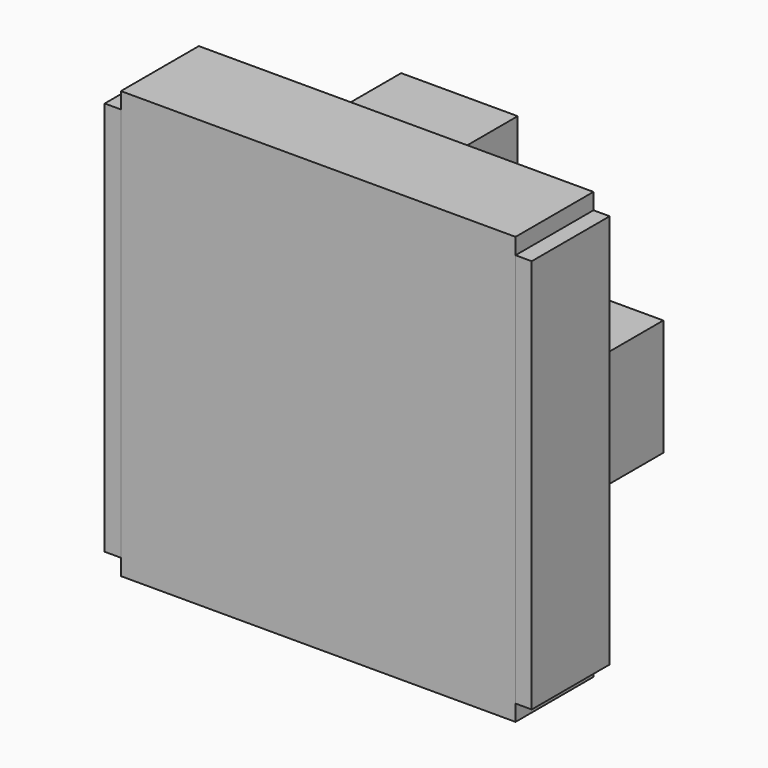
from build123d import *

# Parameters (mm, degrees)
F7_W     = 102.895118
F7_H     = 111.34009
F0_DEPTH = 25.4
F1_W     = 22.761002
F1_H     = 30.382879
F2_DEPTH = 6.317275
F3_W     = 11.380501
F3_H     = 30.382879
F4_DEPTH = 10.554014
F5_COUNT = 3
F5_ANGLE = 180


with BuildPart() as f0:
    # F7 (on Front) → F0 (new body)
    with BuildSketch(Plane.XZ):
        Rectangle(F7_W, F7_H)
    extrude(amount=F0_DEPTH)

    # F1 (on face) → F2 (join)
    with BuildSketch(Plane(origin=(-51.447559, 0, 0), x_dir=(0, -1, 0), z_dir=(-1, 0, 0))):
        with Locations((-11.380501, -1.708765)):
            Rectangle(F1_W, F1_H)
    extrude(amount=-F2_DEPTH)

    # F3 (on face) → F4 (join)
    with BuildSketch(Plane.YZ.offset(-45.130285)):
        with Locations((17.070752, -1.708765)):
            Rectangle(F3_W, F3_H)
    extrude(amount=F4_DEPTH)


with BuildPart() as f5_1:
    # F5: instance of F0
    add(f0.part.rotate(Axis((0, 87.982535, 0), (0, 1, 0)), 1 * F5_ANGLE / (F5_COUNT - 1)))


with BuildPart() as f5_2:
    # F5: instance of F0
    add(f0.part.rotate(Axis((0, 87.982535, 0), (0, 1, 0)), 2 * F5_ANGLE / (F5_COUNT - 1)))


solid = Compound([f0.part, f5_1.part, f5_2.part])
